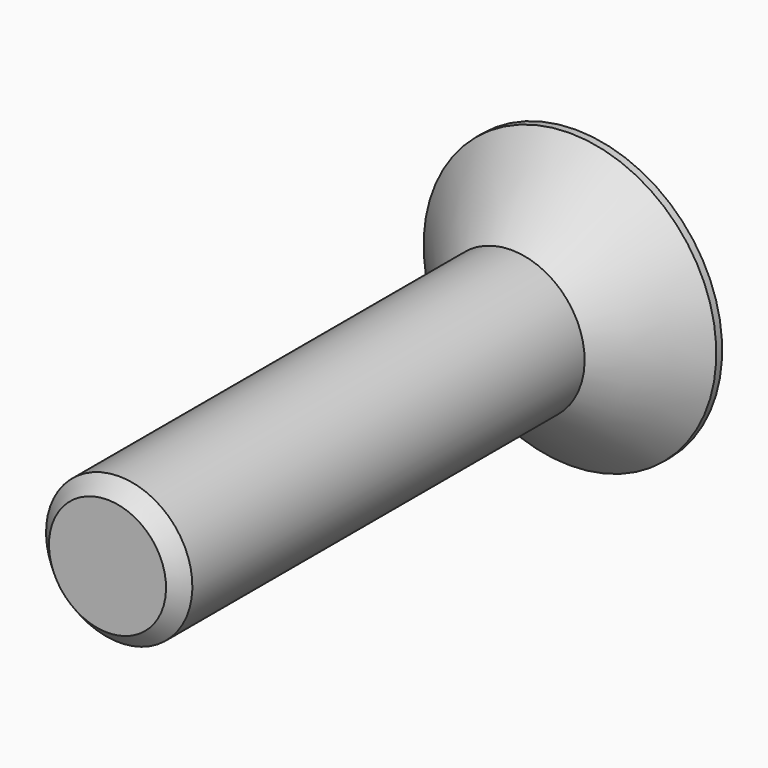
from build123d import *

# Parameters (mm, degrees)
F4_DEPTH = 4.4


with BuildPart() as f2:
    # F1 (on Right) → F2 (revolve)
    with BuildSketch(Plane.YZ):
        Polygon((-40, 0), (0, 0), (0, 10), (-0.5, 10), (-5.5, 5), (-39, 5), (-40, 4), align=None)
    revolve(axis=Axis((0, -20, 0), (0, 1, 0)))

    # F3 (on face) → F4 (cut)
    with BuildSketch(Plane(origin=(0, 0, 0), x_dir=(-1, 0, 0), z_dir=(0, 1, 0))):
        Polygon((3, 1.7320508076), (0, 3.4641016151), (-3, 1.7320508076), (-3, -1.7320508076), (0, -3.4641016151), (3, -1.7320508076), align=None)
    extrude(amount=-F4_DEPTH, mode=Mode.SUBTRACT)


solid = f2.part
